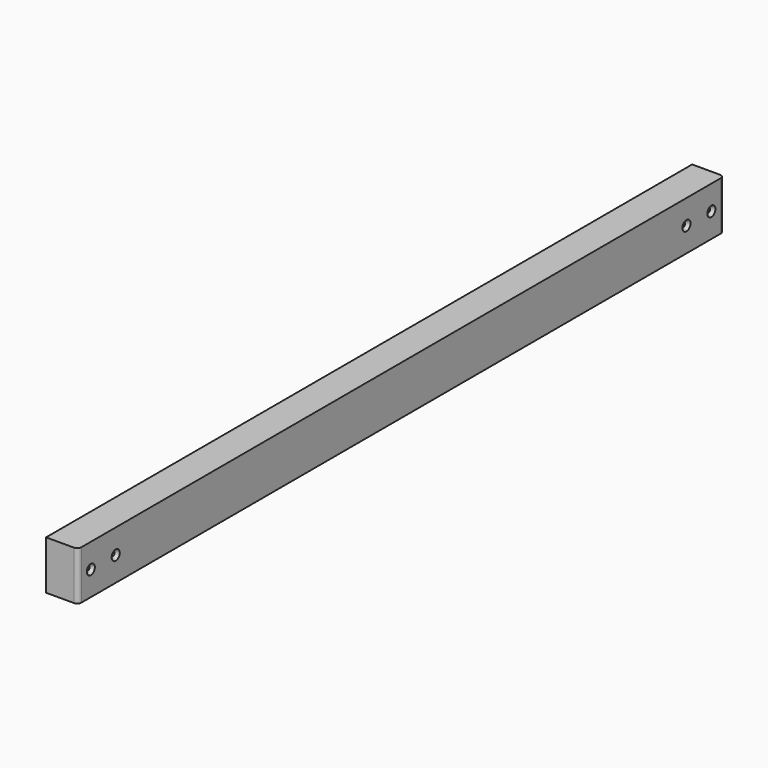
from build123d import *

# Parameters (mm, degrees)
F0_W           = 38
F0_H           = 58
F1_DEPTH       = 480
F3_R           = 5
F4_D           = 5
F4_CSINK_D     = 12
F4_CSINK_ANGLE = 90


with BuildPart() as f1:
    # F0 (on Front) → F1 (new body)
    with BuildSketch(Plane.XZ):
        Rectangle(F0_W, F0_H)
    extrude(amount=-F1_DEPTH)

    # F3
    f3_edges = [f1.edges().sort_by_distance(p)[0] for p in [
        (19, 0, 0),
    ]]
    fillet(f3_edges, radius=F3_R)

    # F4 (through all)
    with Locations(Plane.YZ.offset(19)):
        with Locations((19, 0), (56, 0)):
            CounterSinkHole(F4_D / 2, F4_CSINK_D / 2, counter_sink_angle=F4_CSINK_ANGLE)

    # F5: F1 across face


with BuildPart() as f1_1:
    add(f1.part)
    add(f1.part.mirror(Plane(origin=(0, 480, 0), x_dir=(1, 0, 0), z_dir=(0, 1, 0))))


solid = f1_1.part
